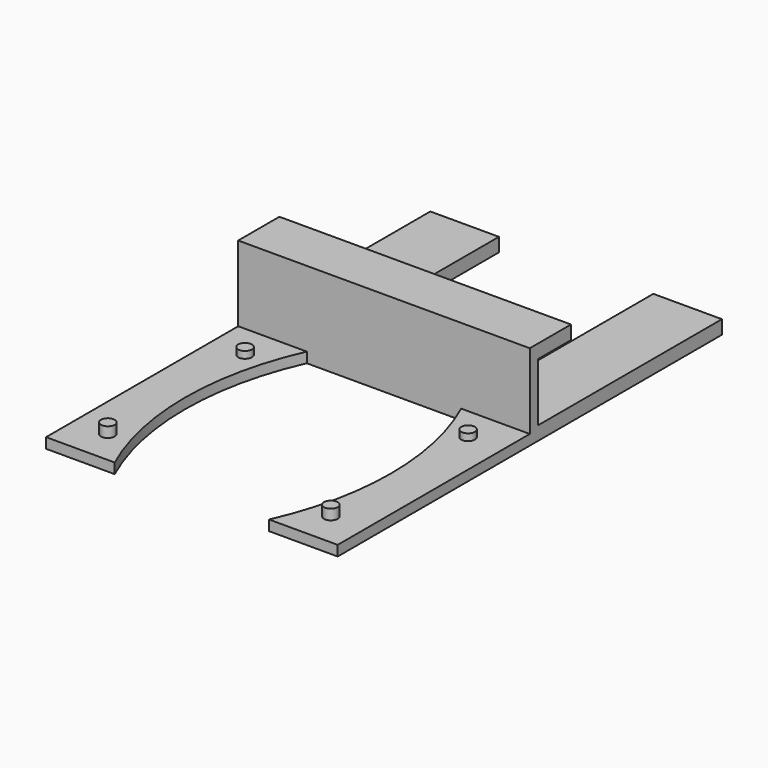
from build123d import *

# Parameters (mm, degrees)
F1_DEPTH = 25
F0_R     = 2
F2_DEPTH = 3
F3_DEPTH = 5
F4_W     = 55
F4_H     = 4
F5_DEPTH = 85.001
F6_DEPTH = 6


with BuildPart() as f1:
    # F0 (on Top) → F1 (new body)
    with BuildSketch(Plane.XY):
        Polygon((-42.5, 0), (-22.5, 0), (22.5, 0), (42.5, 0), (42.5, 70), (22.5, 70), (22.5, 20), (0, 20), (-22.5, 20), (-22.5, 70), (-42.5, 70), align=None)
    extrude(amount=F1_DEPTH)

    # F0 (on Top) → F2 (join)
    with BuildSketch(Plane.XY):
        with BuildLine():
            ThreePointArc((-22.5, -70), (-30, -35), (-22.5, 0))
            Line((-22.5, 0), (-42.5, 0))
            Line((-42.5, 0), (-42.5, -70))
            Line((-42.5, -70), (-22.5, -70))
        make_face()
        with Locations((-32.5, -60)):
            Circle(F0_R, mode=Mode.SUBTRACT)
        with Locations((-32.5, -10)):
            Circle(F0_R, mode=Mode.SUBTRACT)
        with BuildLine():
            Line((42.5, 0), (22.5, 0))
            ThreePointArc((22.5, 0), (30, -35), (22.5, -70))
            Line((22.5, -70), (42.5, -70))
            Line((42.5, -70), (42.5, 0))
        make_face()
        with Locations((32.5, -60)):
            Circle(F0_R, mode=Mode.SUBTRACT)
        with Locations((32.5, -10)):
            Circle(F0_R, mode=Mode.SUBTRACT)
    extrude(amount=F2_DEPTH)

    # F0 (on Top) → F3 (join)
    with BuildSketch(Plane.XY):
        with Locations((-32.5, -10)):
            Circle(F0_R)
        with Locations((32.5, -10)):
            Circle(F0_R)
    extrude(amount=F3_DEPTH)

    # F4 (on face) → F5 (cut, through all)
    with BuildSketch(Plane(origin=(-42.5, 0, 0), x_dir=(0, -1, 0), z_dir=(-1, 0, 0))):
        Polygon((-15, 21), (-70, 21), (-70, 4), (-3, 4), (-3, 21), align=None)
        with Locations((-42.5, 23)):
            Rectangle(F4_W, F4_H)
    extrude(amount=-F5_DEPTH, mode=Mode.SUBTRACT)

    # F0 (on Top) → F6 (join)
    with BuildSketch(Plane.XY):
        with Locations((-32.5, -60)):
            Circle(F0_R)
        with Locations((32.5, -60)):
            Circle(F0_R)
    extrude(amount=F6_DEPTH)


solid = f1.part
